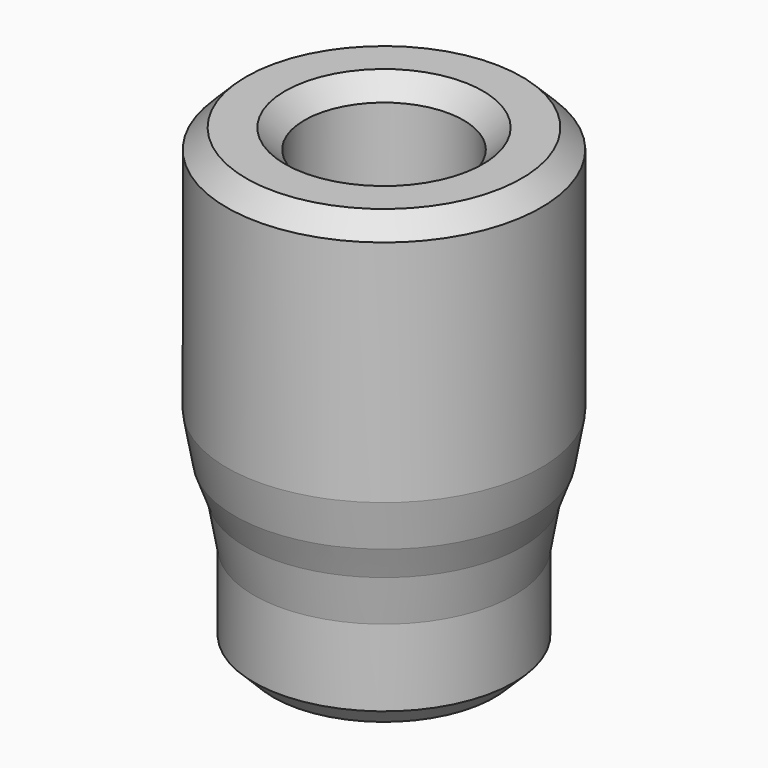
from build123d import *

# Parameters (mm, degrees)
F3_DEPTH = 12
F4_SIZE  = 1
F5_SIZE  = 1.2


with BuildPart() as f1:
    # F0 (on Front) → F1 (revolve)
    with BuildSketch(Plane.XZ):
        Polygon((-6.7, 0), (-2.7, 0), (-2.7, 12), (-4.1, 12), (-4.1, 24), (-8.1, 24), (-8.1, 10), (-6.7, 6.153532), align=None)
    revolve(axis=Axis((0, 0, 10.296541), (0, 0, -1)))

    # F2 (on Top) → F3 (join)
    with BuildSketch(Plane.XY):
        with BuildLine():
            Line((-2, -1.813836), (-2, 1.813836))
            ThreePointArc((-2, 1.813836), (-2.7, 0), (-2, -1.813836))
        make_face()
    extrude(amount=F3_DEPTH)

    # F4
    f4_edges = [f1.edges().sort_by_distance(p)[0] for p in [
        (8.1, 0, 24),
        (6.7, 0, 0),
        (2.7, 0, 0),
        (-2, 0, 0),
        (4.1, 0, 24),
    ]]
    chamfer(f4_edges, length=F4_SIZE)

    # F5
    f5_edges = [f1.edges().sort_by_distance(p)[0] for p in [
        (8.1, 0, 10),
        (6.7, 0, 6.153532),
    ]]
    chamfer(f5_edges, length=F5_SIZE)


solid = f1.part
